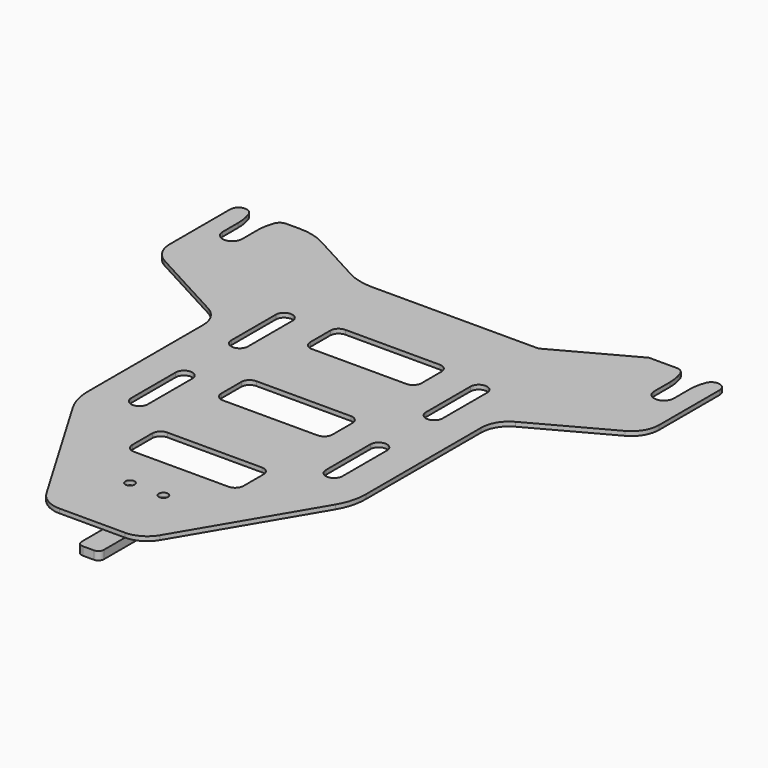
from build123d import *

# Parameters (mm, degrees)
F1_DEPTH = 1.55
F2_D     = 3.3
F3_R     = 1.5
F4_DEPTH = 9
F5_DEPTH = 4
F6_R     = 1.5
F7_DEPTH = 4
F8_D     = 2.5
F9_SIZE  = 2
F10_R    = 2


with BuildPart() as f1:
    # F0 (on Top) → F1 (new body)
    with BuildSketch(Plane.XY):
        with BuildLine():
            ThreePointArc((-73.0117008911, 173.0461061604), (-73.8257564118, 170.0716361541), (-74.1, 167))
            Line((-74.1, 167), (-74.1, 160))
            ThreePointArc((-74.1, 160), (-77.6, 156.5), (-81.1, 160))
            Line((-81.1, 160), (-81.1, 167))
            ThreePointArc((-81.1, 167), (-81.3742435882, 170.0716361541), (-82.1882991089, 173.0461061604))
            ThreePointArc((-82.1882991089, 173.0461061604), (-85.5314589949, 174.9525499719), (-88, 172))
            Line((-88, 172), (-88, 144.8367428881))
            ThreePointArc((-88, 144.8367428881), (-86.5912190005, 139.719032845), (-82.7618087829, 136.0432693358))
            Line((-82.7618087829, 136.0432693358), (-55.2381912171, 121.1387832894))
            ThreePointArc((-55.2381912171, 121.1387832894), (-51.4087809995, 117.4630197802), (-50, 112.3453097371))
            Line((-50, 112.3453097371), (-50, 60.4674841206))
            ThreePointArc((-50, 60.4674841206), (-49.2921047489, 55.1935203022), (-47.2185305643, 50.292897878))
            Line((-47.2185305643, 50.292897878), (-20.4029631556, 4.9127068787))
            ThreePointArc((-20.4029631556, 4.9127068787), (-16.7498591293, 1.3145831645), (-11.7936978735, 0))
            Line((-11.7936978735, 0), (0, 0))
            Line((0, 0), (11.7936978735, 0))
            ThreePointArc((11.7936978735, 0), (16.7498591293, 1.3145831645), (20.4029631556, 4.9127068787))
            Line((20.4029631556, 4.9127068787), (47.2185305643, 50.292897878))
            ThreePointArc((47.2185305643, 50.292897878), (49.2921047489, 55.1935203022), (50, 60.4674841206))
            Line((50, 60.4674841206), (50, 112.3453097371))
            ThreePointArc((50, 112.3453097371), (51.4087809995, 117.4630197802), (55.2381912171, 121.1387832894))
            Line((55.2381912171, 121.1387832894), (82.7618087829, 136.0432693358))
            ThreePointArc((82.7618087829, 136.0432693358), (86.5912190005, 139.719032845), (88, 144.8367428881))
            Line((88, 144.8367428881), (88, 172))
            ThreePointArc((88, 172), (85.5314589949, 174.9525499719), (82.1882991089, 173.0461061604))
            ThreePointArc((82.1882991089, 173.0461061604), (81.3742435882, 170.0716361541), (81.1, 167))
            Line((81.1, 167), (81.1, 160))
            ThreePointArc((81.1, 160), (77.6, 156.5), (74.1, 160))
            Line((74.1, 160), (74.1, 167))
            ThreePointArc((74.1, 167), (73.8257564118, 170.0716361541), (73.0117008911, 173.0461061604))
            ThreePointArc((73.0117008911, 173.0461061604), (71.9119698477, 174.4635663662), (70.2, 175))
            Line((70.2, 175), (60.2, 175))
            Line((60.2, 175), (32.5, 160))
            Line((32.5, 160), (0, 160))
            Line((0, 160), (-27.432486781, 160))
            ThreePointArc((-27.432486781, 160), (-32.3447702575, 160.6126466209), (-36.9561043467, 162.4130528953))
            Line((-36.9561043467, 162.4130528953), (-55.7438956533, 172.5869471047))
            ThreePointArc((-55.7438956533, 172.5869471047), (-60.3552297425, 174.3873533791), (-65.267513219, 175))
            Line((-65.267513219, 175), (-70.2, 175))
            ThreePointArc((-70.2, 175), (-71.9119698477, 174.4635663662), (-73.0117008911, 173.0461061604))
        make_face()
        with BuildLine():
            Line((-38, 65), (-38, 85))
            ThreePointArc((-38, 85), (-35, 88), (-32, 85))
            Line((-32, 85), (-32, 65))
            ThreePointArc((-32, 65), (-35, 62), (-38, 65))
        make_face(mode=Mode.SUBTRACT)
        with BuildLine():
            Line((17, 40), (-17, 40))
            ThreePointArc((-17, 40), (-19.1213203436, 40.8786796564), (-20, 43))
            Line((-20, 43), (-20, 52))
            ThreePointArc((-20, 52), (-19.1213203436, 54.1213203436), (-17, 55))
            Line((-17, 55), (17, 55))
            ThreePointArc((17, 55), (19.1213203436, 54.1213203436), (20, 52))
            Line((20, 52), (20, 43))
            ThreePointArc((20, 43), (19.1213203436, 40.8786796564), (17, 40))
        make_face(mode=Mode.SUBTRACT)
        with BuildLine():
            ThreePointArc((38, 65), (35, 62), (32, 65))
            Line((32, 65), (32, 85))
            ThreePointArc((32, 85), (35, 88), (38, 85))
            Line((38, 85), (38, 65))
        make_face(mode=Mode.SUBTRACT)
        with BuildLine():
            Line((-38, 110), (-38, 130))
            ThreePointArc((-38, 130), (-35, 133), (-32, 130))
            Line((-32, 130), (-32, 110))
            ThreePointArc((-32, 110), (-35, 107), (-38, 110))
        make_face(mode=Mode.SUBTRACT)
        with BuildLine():
            Line((17, 80), (-17, 80))
            ThreePointArc((-17, 80), (-19.1213203436, 80.8786796564), (-20, 83))
            Line((-20, 83), (-20, 92))
            ThreePointArc((-20, 92), (-19.1213203436, 94.1213203436), (-17, 95))
            Line((-17, 95), (17, 95))
            ThreePointArc((17, 95), (19.1213203436, 94.1213203436), (20, 92))
            Line((20, 92), (20, 83))
            ThreePointArc((20, 83), (19.1213203436, 80.8786796564), (17, 80))
        make_face(mode=Mode.SUBTRACT)
        with BuildLine():
            ThreePointArc((-20, 132), (-19.1213203436, 134.1213203436), (-17, 135))
            Line((-17, 135), (17, 135))
            ThreePointArc((17, 135), (19.1213203436, 134.1213203436), (20, 132))
            Line((20, 132), (20, 123))
            ThreePointArc((20, 123), (19.1213203436, 120.8786796564), (17, 120))
            Line((17, 120), (-17, 120))
            ThreePointArc((-17, 120), (-19.1213203436, 120.8786796564), (-20, 123))
            Line((-20, 123), (-20, 132))
        make_face(mode=Mode.SUBTRACT)
        with BuildLine():
            ThreePointArc((32, 130), (35, 133), (38, 130))
            Line((38, 130), (38, 110))
            ThreePointArc((38, 110), (35, 107), (32, 110))
            Line((32, 110), (32, 130))
        make_face(mode=Mode.SUBTRACT)
    extrude(amount=F1_DEPTH)

    # F2 (through all)
    with Locations(Plane(origin=(0, 0, 0), x_dir=(1, 0, 0), z_dir=(0, 0, -1))):
        with Locations((-6, -24.5), (6, -24.5)):
            Hole(F2_D / 2)


with BuildPart() as f4:
    # F3 (on Right) → F4 (new body, symmetric)
    with BuildSketch(Plane.YZ):
        Polygon((27.5, 0), (15, 0), (15, -1), (25, -1), (25, -6.5), (34, -6.5), (34, -1.5), (27.5, -1.5), align=None)
        Polygon((25, -1), (15, -1), (15, -5.6164928148), (17, -8), (25, -8), (25, -6.5), align=None)
        with Locations((18.35, -4.5)):
            Circle(F3_R, mode=Mode.SUBTRACT)
        with BuildLine():
            Line((34, -6.5), (25, -6.5))
            Line((25, -6.5), (25, -8))
            Line((25, -8), (27, -8))
            ThreePointArc((27, -8), (36.4868329805, -9.5395010585), (45, -14))
            Line((45, -14), (45, -12))
            Line((45, -12), (40.5, -6.5))
            Line((40.5, -6.5), (34, -6.5))
        make_face()
    extrude(amount=F4_DEPTH, both=True)

    # F3 (on Right) → F5 (cut, symmetric)
    with BuildSketch(Plane.YZ):
        Polygon((25, -1), (15, -1), (15, -5.6164928148), (17, -8), (25, -8), (25, -6.5), align=None)
        with Locations((18.35, -4.5)):
            Circle(F3_R, mode=Mode.SUBTRACT)
        with BuildLine():
            Line((34, -6.5), (25, -6.5))
            Line((25, -6.5), (25, -8))
            Line((25, -8), (27, -8))
            ThreePointArc((27, -8), (36.4868329805, -9.5395010585), (45, -14))
            Line((45, -14), (45, -12))
            Line((45, -12), (40.5, -6.5))
            Line((40.5, -6.5), (34, -6.5))
        make_face()
    extrude(amount=F5_DEPTH, both=True, mode=Mode.SUBTRACT)

    # F8 (through all)
    with Locations(Plane.XY):
        with Locations((6, 24.5), (-6, 24.5)):
            Hole(F8_D / 2)

    # F9
    f9_edges = [f4.edges().sort_by_distance(p)[0] for p in [
        (9, 34, -4),
        (-9, 34, -4),
        (0, 34, -1.5),
    ]]
    chamfer(f9_edges, length=F9_SIZE)


with BuildPart() as f7:
    # F6 (on Right) → F7 (new body, symmetric)
    with BuildSketch(Plane.YZ):
        with BuildLine():
            Line((-1.75, -6.5), (-1.75, -9.5))
            Line((-1.75, -9.5), (44.25, -9.5))
            Line((44.25, -9.5), (44.25, -8.5))
            Line((44.25, -8.5), (40.3368461239, -3.8364848098))
            Line((40.3368461239, -3.8364848098), (37, -1.5))
            Line((37, -1.5), (36, -1.5))
            Line((36, -1.5), (36, -6.5))
            Line((36, -6.5), (22.35, -6.5))
            Line((22.35, -6.5), (22.35, -4.5))
            ThreePointArc((22.35, -4.5), (18.35, -0.5), (14.35, -4.5))
            Line((14.35, -4.5), (14.35, -6.5))
            Line((14.35, -6.5), (-1.75, -6.5))
        make_face()
        with Locations((18.35, -4.5)):
            Circle(F6_R, mode=Mode.SUBTRACT)
    extrude(amount=F7_DEPTH, both=True)

    # F10
    f10_edges = [f7.edges().sort_by_distance(p)[0] for p in [
        (-4, -1.75, -8),
        (4, -1.75, -8),
    ]]
    fillet(f10_edges, radius=F10_R)


solid = Compound([f1.part, f4.part, f7.part])
